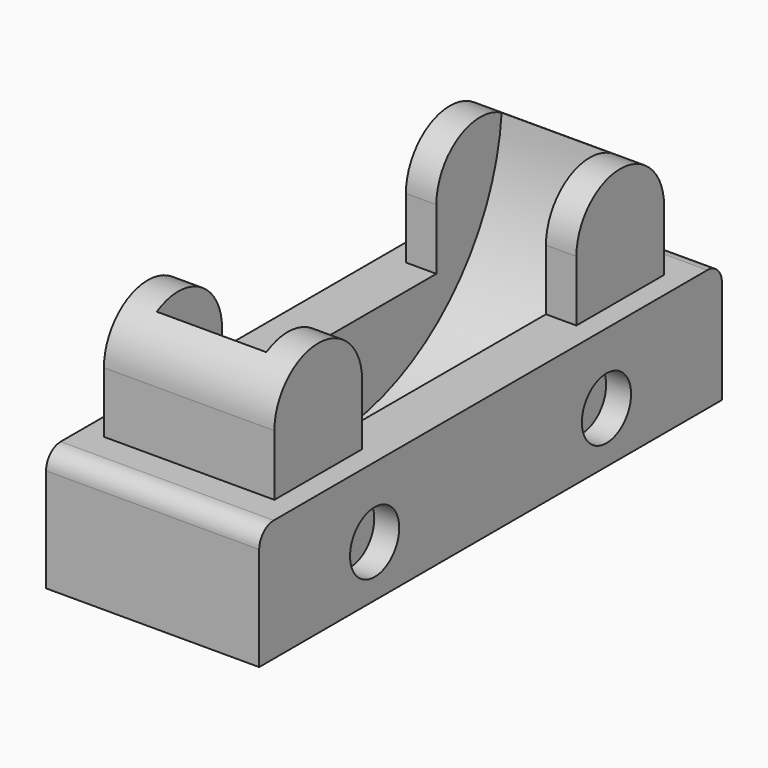
from build123d import *

# Parameters (mm, degrees)
F0_W      = 35
F0_H      = 95
F1_DEPTH  = 20
F2_W      = 5
F2_H      = 18
F2_W_2    = 18
F3_DEPTH  = 10
F6_DEPTH  = 28
F8_DEPTH  = 9
F9_R      = 3
F10_R     = 5.05
F11_DEPTH = 4.1
F12_R     = 5.05
F13_DEPTH = 4.1


with BuildPart() as f1:
    # F0 (on Top) → F1 (new body)
    with BuildSketch(Plane.XY):
        Rectangle(F0_W, F0_H)
    extrude(amount=F1_DEPTH)

    # F2 (on face) → F3 (join)
    with BuildSketch(Plane.XY.offset(20)):
        with Locations((-11.5, -31)):
            Rectangle(F2_W, F2_H)
        with Locations((11.5, -31)):
            Rectangle(F2_W, F2_H)
        with Locations((11.5, 31)):
            Rectangle(F2_W, F2_H)
        with Locations((-11.5, 31)):
            Rectangle(F2_W, F2_H)
        with Locations((0, -31)):
            Rectangle(F2_W_2, F2_H)
        with Locations((0, 31)):
            Rectangle(F2_W_2, F2_H)
    extrude(amount=F3_DEPTH)

    # F5 (on face) + F4 (on face) → F6 (join)
    with BuildSketch(Plane.YZ.offset(14)):
        with BuildLine():
            Line((-40, 30), (-22, 30))
            ThreePointArc((-22, 30), (-31, 39), (-40, 30))
        make_face()
    with BuildSketch(Plane.YZ.offset(14)):
        with BuildLine():
            Line((22, 30), (40, 30))
            ThreePointArc((40, 30), (31, 39), (22, 30))
        make_face()
    extrude(amount=-F6_DEPTH)

    # F7 (on Right) → F8 (cut, symmetric)
    with BuildSketch(Plane.YZ):
        with BuildLine():
            ThreePointArc((7.6e-09, 76), (-25.1022907294, 65.6022907348), (-35.5, 40.5))
            Line((-35.5, 40.5), (35.5, 40.5))
            ThreePointArc((35.5, 40.5), (25.1022907348, 65.6022907294), (7.6e-09, 76))
        make_face()
        with BuildLine():
            Line((-35.5, 76), (-35.5, 40.5))
            ThreePointArc((-35.5, 40.5), (-25.1022907294, 65.6022907348), (7.6e-09, 76))
            Line((7.6e-09, 76), (-35.5, 76))
        make_face()
        with BuildLine():
            ThreePointArc((7.6e-09, 76), (25.1022907348, 65.6022907294), (35.5, 40.5))
            Line((35.5, 40.5), (35.5, 76))
            Line((35.5, 76), (7.6e-09, 76))
        make_face()
        with BuildLine():
            Line((35.5, 40.5), (-35.5, 40.5))
            ThreePointArc((-35.5, 40.5), (0, 5), (35.5, 40.5))
        make_face()
    extrude(amount=F8_DEPTH, both=True, mode=Mode.SUBTRACT)

    # F9
    f9_edges = [f1.edges().sort_by_distance(p)[0] for p in [
        (0, -47.5, 20),
        (0, 47.5, 20),
    ]]
    fillet(f9_edges, radius=F9_R)

    # F10 (on face) → F11 (cut)
    with BuildSketch(Plane.YZ.offset(17.5)):
        with Locations((-23.8, 8.45)):
            Circle(F10_R)
        with Locations((23.8, 8.45)):
            Circle(F10_R)
    extrude(amount=-F11_DEPTH, mode=Mode.SUBTRACT)

    # F12 (on face) → F13 (cut)
    with BuildSketch(Plane(origin=(-17.5, 0, 0), x_dir=(0, -1, 0), z_dir=(-1, 0, 0))):
        with Locations((-23.75, 8.5)):
            Circle(F12_R)
        with Locations((23.75, 8.5)):
            Circle(F12_R)
    extrude(amount=-F13_DEPTH, mode=Mode.SUBTRACT)


solid = f1.part
